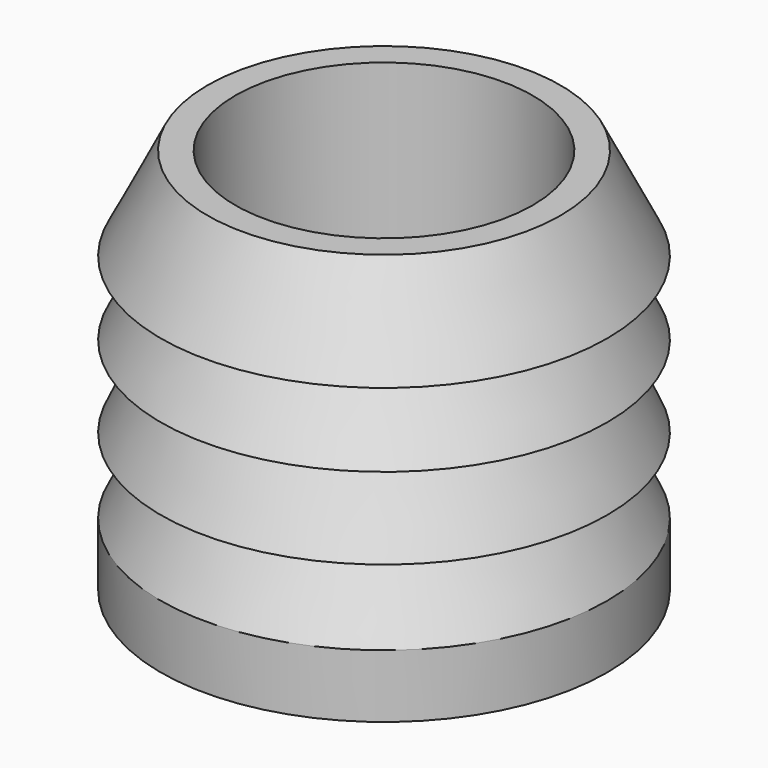
from build123d import *

# Parameters (mm, degrees)
F2_R     = 12.688559
F3_DEPTH = 33.02


with BuildPart() as f1:
    # F0 (on Front) → F1 (revolve)
    with BuildSketch(Plane.XZ):
        Polygon((0, 33.02), (0, 0), (19.05, 0), (19.05, 5.386552), (15.875, 11.824134), (19.05, 11.824134), (15.875, 18.787236), (19.05, 18.787236), (15.875, 25.09344), (19.05, 25.09344), (15.059195, 33.02), align=None)
    revolve(axis=Axis((0, 0, 16.51), (0, 0, -1)))

    # F2 (on face) → F3 (cut, through all)
    with BuildSketch(Plane.XY.offset(33.02)):
        Circle(F2_R)
    extrude(amount=-F3_DEPTH, mode=Mode.SUBTRACT)


solid = f1.part
